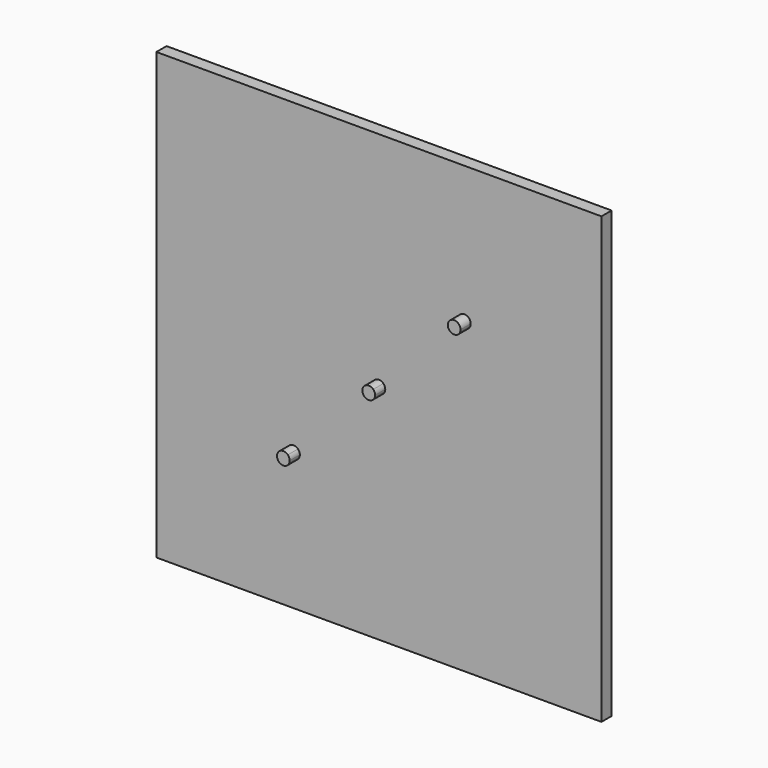
from build123d import *

# Parameters (mm, degrees)
F0_W     = 889
F0_H     = 889
F1_DEPTH = 12.7
F3_DEPTH = 25.4


with BuildPart() as f1:
    # F0 (on Front) → F1 (new body, symmetric)
    with BuildSketch(Plane.XZ):
        Rectangle(F0_W, F0_H)
    extrude(amount=F1_DEPTH, both=True)

    # F2 (on face) → F3 (join)
    with BuildSketch(Plane.XZ.offset(12.7)):
        with BuildLine():
            Line((8.980256, 8.980256), (0, 0))
            Line((0, 0), (-8.980256, -8.980256))
            ThreePointArc((-8.980256, -8.980256), (4.86008, -11.73327), (12.7, 0))
            ThreePointArc((12.7, 0), (11.73327, 4.86008), (8.980256, 8.980256))
        make_face()
        with BuildLine():
            Line((-8.980256, -8.980256), (0, 0))
            Line((0, 0), (8.980256, 8.980256))
            ThreePointArc((8.980256, 8.980256), (-8.980256, 8.980256), (-8.980256, -8.980256))
        make_face()
        with BuildLine():
            ThreePointArc((-157.924866, -170.624866), (-158.891596, -165.764787), (-161.64461, -161.64461))
            ThreePointArc((-161.64461, -161.64461), (-182.358136, -175.484946), (-157.924866, -170.624866))
        make_face()
        with BuildLine():
            ThreePointArc((183.324866, 170.624866), (165.764787, 182.358136), (161.64461, 161.64461))
            ThreePointArc((161.64461, 161.64461), (175.484946, 158.891596), (183.324866, 170.624866))
        make_face()
    extrude(amount=F3_DEPTH)


solid = f1.part
